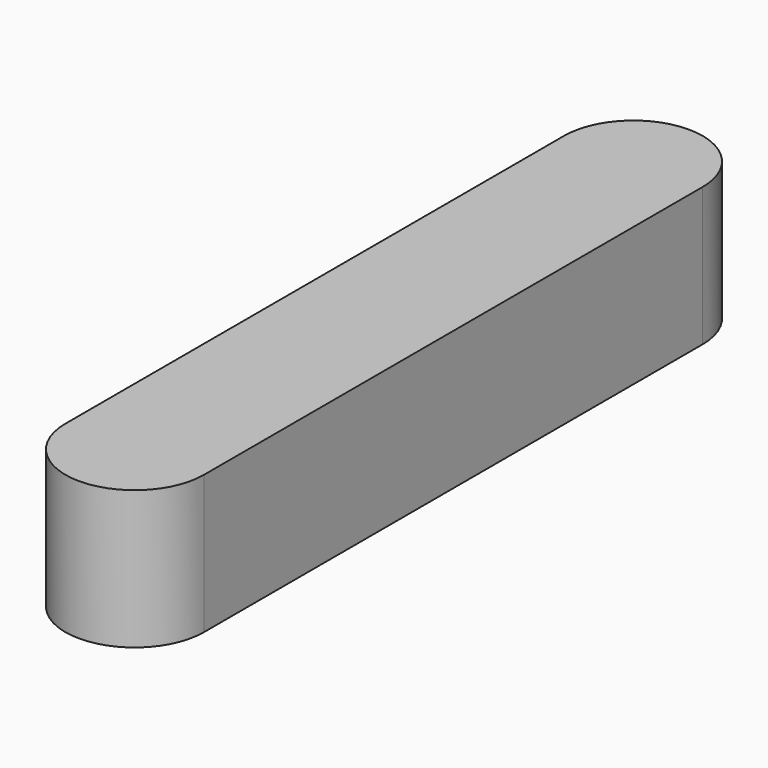
from build123d import *

# Parameters (mm, degrees)
CYLINDER002_R     = 2
CYLINDER002_DEPTH = 4
CYLINDER003_R     = 2
CYLINDER003_DEPTH = 4
BOX001_W          = 4
BOX001_H          = 18
BOX001_DEPTH      = 4


with BuildPart() as cilindro:
    # Cylinder002 → Cylinder002 (new body)
    with BuildSketch(Plane(origin=(0, 11, 1), x_dir=(1, 0, 0), z_dir=(0, 0, 1))):
        Circle(CYLINDER002_R)
    extrude(amount=CYLINDER002_DEPTH)


with BuildPart() as cilindro001:
    # Cylinder003 → Cylinder003 (new body)
    with BuildSketch(Plane(origin=(0, -7, 1), x_dir=(1, 0, 0), z_dir=(0, 0, 1))):
        Circle(CYLINDER003_R)
    extrude(amount=CYLINDER003_DEPTH)


with BuildPart() as fusion:
    # Box001 → Box001 (new body)
    with BuildSketch(Plane(origin=(-2, -7, 1), x_dir=(1, 0, 0), z_dir=(0, 0, 1))):
        with Locations((2, 9)):
            Rectangle(BOX001_W, BOX001_H)
    extrude(amount=BOX001_DEPTH)

    # Fusion: union Cilindro, Cilindro001
    add(cilindro.part)
    add(cilindro001.part)


solid = fusion.part
